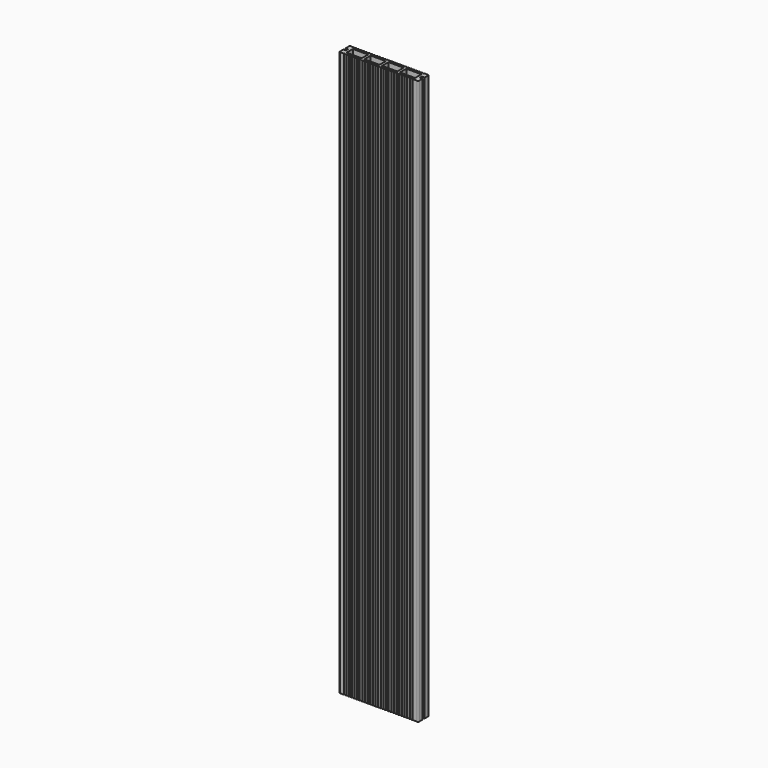
from build123d import *

# Parameters (mm, degrees)
F1_DEPTH = 1070
F2_R     = 2
F3_R     = 1
F4_DEPTH = 1070


with BuildPart() as f1:
    # F0 (on Top) → F1 (new body)
    with BuildSketch(Plane.XY):
        Polygon((75, 12.5), (0, 12.5), (-75, 12.5), (-75, 2.5), (-70, 2.5), (-70, 0), (-70, -2.5), (-75, -2.5), (-75, -12.5), (0, -12.5), (75, -12.5), (75, -2.5), (70, -2.5), (70, 0), (70, 2.5), (75, 2.5), align=None)
        Polygon((-65, -7.5), (-65, 0), (-65, 7.5), (-36.25, 7.5), (-36.25, 0), (-36.25, -7.5), align=None, mode=Mode.SUBTRACT)
        Polygon((-31.25, -7.5), (-31.25, 0), (-31.25, 7.5), (-2.5, 7.5), (-2.5, 0), (-2.5, -7.5), align=None, mode=Mode.SUBTRACT)
        Polygon((2.5, 0), (2.5, 7.5), (31.25, 7.5), (31.25, 0), (31.25, -7.5), (2.5, -7.5), align=None, mode=Mode.SUBTRACT)
        Polygon((65, 7.5), (65, 0), (65, -7.5), (36.25, -7.5), (36.25, 0), (36.25, 7.5), align=None, mode=Mode.SUBTRACT)
    extrude(amount=F1_DEPTH)

    # F2
    f2_edges = [f1.edges().sort_by_distance(p)[0] for p in [
        (75, -12.5, 535),
        (75, 12.5, 535),
        (-75, -12.5, 535),
        (-75, 12.5, 535),
    ]]
    fillet(f2_edges, radius=F2_R)

    # F3 (on face) → F4 (cut)
    with BuildSketch(Plane.XY.offset(1070)):
        with Locations((-65, 12.5)):
            Circle(F3_R)
        with Locations((-65, -12.5)):
            Circle(F3_R)
        with Locations((-60, 12.5)):
            Circle(F3_R)
        with Locations((-60, -12.5)):
            Circle(F3_R)
        with Locations((-55, 12.5)):
            Circle(F3_R)
        with Locations((-55, -12.5)):
            Circle(F3_R)
        with Locations((-50, 12.5)):
            Circle(F3_R)
        with Locations((-50, -12.5)):
            Circle(F3_R)
        with Locations((-45, 12.5)):
            Circle(F3_R)
        with Locations((-45, -12.5)):
            Circle(F3_R)
        with Locations((-40, 12.5)):
            Circle(F3_R)
        with Locations((-40, -12.5)):
            Circle(F3_R)
        with Locations((-35, 12.5)):
            Circle(F3_R)
        with Locations((-35, -12.5)):
            Circle(F3_R)
        with Locations((-30, 12.5)):
            Circle(F3_R)
        with Locations((-30, -12.5)):
            Circle(F3_R)
        with Locations((-25, 12.5)):
            Circle(F3_R)
        with Locations((-25, -12.5)):
            Circle(F3_R)
        with Locations((-20, 12.5)):
            Circle(F3_R)
        with Locations((-20, -12.5)):
            Circle(F3_R)
        with Locations((-15, 12.5)):
            Circle(F3_R)
        with Locations((-15, -12.5)):
            Circle(F3_R)
        with Locations((-10, 12.5)):
            Circle(F3_R)
        with Locations((-10, -12.5)):
            Circle(F3_R)
        with Locations((-5, 12.5)):
            Circle(F3_R)
        with Locations((-5, -12.5)):
            Circle(F3_R)
        with Locations((0, 12.5)):
            Circle(F3_R)
        with Locations((0, -12.5)):
            Circle(F3_R)
        with Locations((5, 12.5)):
            Circle(F3_R)
        with Locations((5, -12.5)):
            Circle(F3_R)
        with Locations((10, 12.5)):
            Circle(F3_R)
        with Locations((10, -12.5)):
            Circle(F3_R)
        with Locations((15, 12.5)):
            Circle(F3_R)
        with Locations((15, -12.5)):
            Circle(F3_R)
        with Locations((20, 12.5)):
            Circle(F3_R)
        with Locations((20, -12.5)):
            Circle(F3_R)
        with Locations((25, 12.5)):
            Circle(F3_R)
        with Locations((25, -12.5)):
            Circle(F3_R)
        with Locations((30, 12.5)):
            Circle(F3_R)
        with Locations((30, -12.5)):
            Circle(F3_R)
        with Locations((35, 12.5)):
            Circle(F3_R)
        with Locations((35, -12.5)):
            Circle(F3_R)
        with Locations((40, 12.5)):
            Circle(F3_R)
        with Locations((40, -12.5)):
            Circle(F3_R)
        with Locations((45, 12.5)):
            Circle(F3_R)
        with Locations((45, -12.5)):
            Circle(F3_R)
        with Locations((50, 12.5)):
            Circle(F3_R)
        with Locations((50, -12.5)):
            Circle(F3_R)
        with Locations((55, 12.5)):
            Circle(F3_R)
        with Locations((55, -12.5)):
            Circle(F3_R)
        with Locations((60, 12.5)):
            Circle(F3_R)
        with Locations((60, -12.5)):
            Circle(F3_R)
        with Locations((65, 12.5)):
            Circle(F3_R)
        with Locations((65, -12.5)):
            Circle(F3_R)
    extrude(amount=-F4_DEPTH, mode=Mode.SUBTRACT)


solid = f1.part
